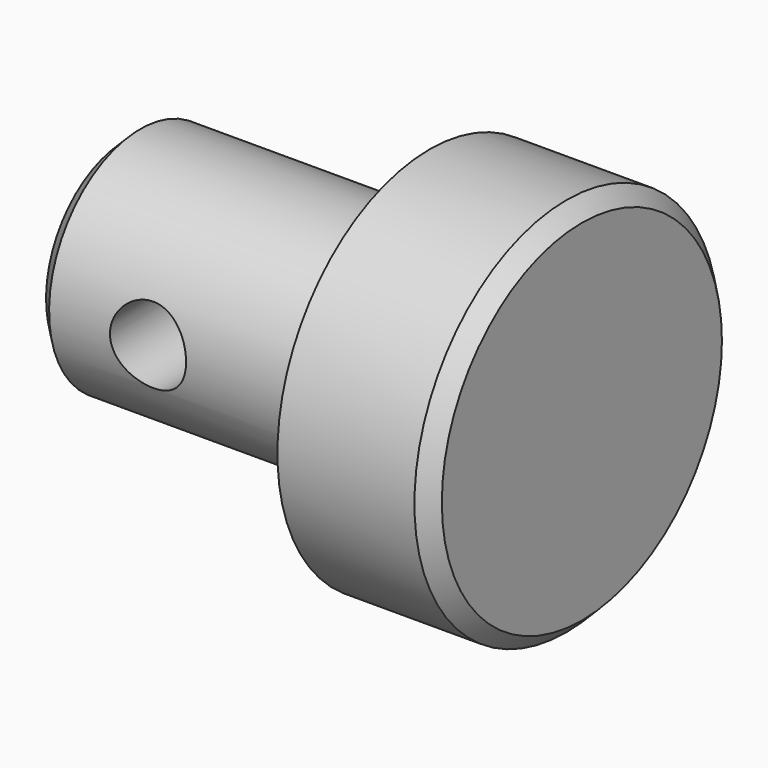
from build123d import *

# Parameters (mm, degrees)
F4_D    = 25.4
F5_SIZE = 5.08


with BuildPart() as f1:
    # F0 (on Front) → F1 (revolve)
    with BuildSketch(Plane.XZ):
        Polygon((50.8, 0), (-101.6, 0), (-101.6, -38.1), (0, -38.1), (0, -63.5), (50.8, -63.5), align=None)
    revolve(axis=Axis((-25.4, 0, 0), (1, 0, 0)))

    # F4 (through all)
    with Locations(Plane.XZ.offset(38.1)):
        with Locations((-63.5, 0)):
            Hole(F4_D / 2)

    # F5
    f5_edges = [f1.edges().sort_by_distance(p)[0] for p in [
        (50.8, 0, 63.5),
        (-101.6, 0, 38.1),
    ]]
    chamfer(f5_edges, length=F5_SIZE)


solid = f1.part
